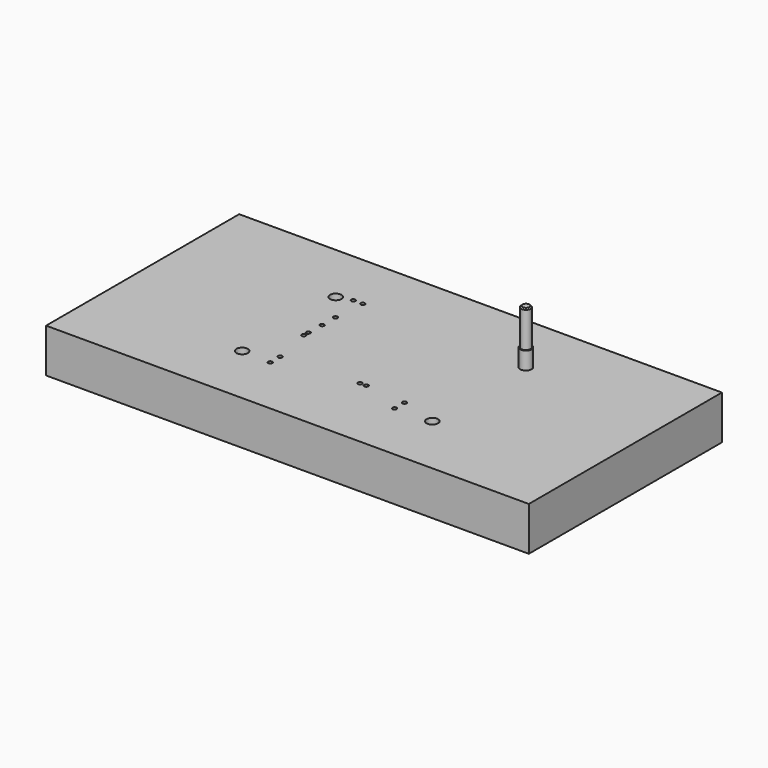
from build123d import *

# Parameters (mm, degrees)
F0_W      = 198
F0_H      = 99
F1_DEPTH  = 18
F3_DEPTH  = 5
F4_R      = 2.35
F5_DEPTH  = 3
F7_R      = 0.85
F8_DEPTH  = 18.001
F6_R      = 1.525
F9_DEPTH  = 18.001
F11_R     = 2.35
F12_DEPTH = 10.18
F13_R     = 1.92
F14_DEPTH = 15
F15_SIZE  = 0.5


with BuildPart() as f1:
    # F0 (on Top) → F1 (new body)
    with BuildSketch(Plane.XY):
        Rectangle(F0_W, F0_H)
    extrude(amount=-F1_DEPTH)

    # F2 (on face) → F3 (cut)
    with BuildSketch(Plane(origin=(0, 0, -18), x_dir=(1, 0, 0), z_dir=(0, 0, -1))):
        with BuildLine():
            ThreePointArc((46.35, 25), (44.490128, 29.490128), (40, 31.35))
            Line((40, 31.35), (-40, 31.35))
            ThreePointArc((-40, 31.35), (-44.490128, 29.490128), (-46.35, 25))
            Line((-46.35, 25), (-46.35, -25))
            ThreePointArc((-46.35, -25), (-44.490128, -29.490128), (-40, -31.35))
            Line((-40, -31.35), (40, -31.35))
            ThreePointArc((40, -31.35), (44.490128, -29.490128), (46.35, -25))
            Line((46.35, -25), (46.35, 25))
        make_face()
    extrude(amount=-F3_DEPTH, mode=Mode.SUBTRACT)

    # F4 (on face) → F5 (cut)
    with BuildSketch(Plane.XY):
        with Locations((-39, -24)):
            Circle(F4_R)
        with Locations((39, -24)):
            Circle(F4_R)
        with Locations((39, 24)):
            Circle(F4_R)
        with Locations((-39, 24)):
            Circle(F4_R)
    extrude(amount=-F5_DEPTH, mode=Mode.SUBTRACT)

    # F7 (on face) → F8 (cut, through all)
    with BuildSketch(Plane.XY):
        with Locations((4.5, -17.9)):
            Circle(F7_R)
        with Locations((7.04, -17.9)):
            Circle(F7_R)
        with Locations((24, -19.5)):
            Circle(F7_R)
        with Locations((24, -24.58)):
            Circle(F7_R)
        with Locations((-27, -19.5)):
            Circle(F7_R)
        with Locations((-27, -24.58)):
            Circle(F7_R)
        with Locations((-33.13, 25.69)):
            Circle(F7_R)
        with Locations((-30.2, 12.9)):
            Circle(F7_R)
        with Locations((-30.2, 6.04)):
            Circle(F7_R)
        with Locations((-30.4, -0.8)):
            Circle(F7_R)
        with Locations((-30.4, -3.1)):
            Circle(F7_R)
        with Locations((-29.23, 25.69)):
            Circle(F7_R)
    extrude(amount=-F8_DEPTH, mode=Mode.SUBTRACT)

    # F6 (on face) → F9 (cut, through all)
    with BuildSketch(Plane.XY):
        with Locations((-39, 24)):
            Circle(F6_R)
        with Locations((-39, -24)):
            Circle(F6_R)
        with Locations((39, -24)):
            Circle(F6_R)
        with Locations((39, 24)):
            Circle(F6_R)
    extrude(amount=-F9_DEPTH, mode=Mode.SUBTRACT)


with BuildPart() as f12:
    # F11 (on offset) → F12 (new body)
    with BuildSketch(Plane.XY.offset(-3)):
        with Locations((39, 24)):
            Circle(F11_R)
    extrude(amount=F12_DEPTH)

    # F13 (on face) → F14 (join)
    with BuildSketch(Plane.XY.offset(7.18)):
        with Locations((39, 24)):
            Circle(F13_R)
    extrude(amount=F14_DEPTH)

    # F15
    f15_edges = [f12.edges().sort_by_distance(p)[0] for p in [
        (37.08, 24, 22.18),
    ]]
    chamfer(f15_edges, length=F15_SIZE)


solid = Compound([f1.part, f12.part])
